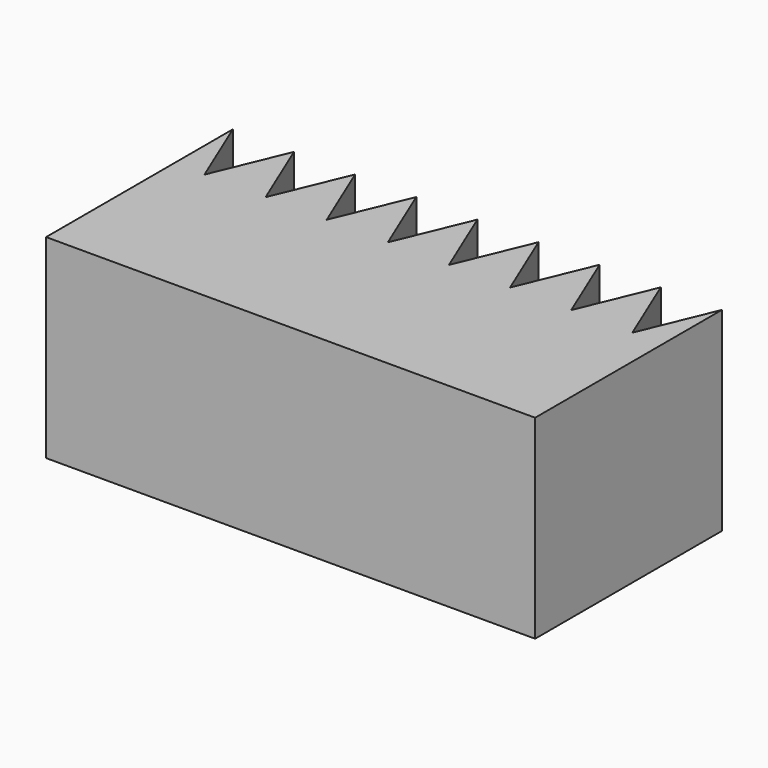
from build123d import *

# Parameters (mm, degrees)
F1_DEPTH = 25


with BuildPart() as f1:
    # F0 (on Top) → F1 (new body)
    with BuildSketch(Plane.XY):
        Polygon((3.92695, -9.480496), (0, 0), (0, -30), (62.8312, -30), (62.8312, 0), (58.90425, -9.480496), (54.9773, 0), (51.05035, -9.480496), (47.1234, 0), (43.19645, -9.480496), (39.2695, 0), (35.34255, -9.480496), (31.4156, 0), (27.48865, -9.480496), (23.5617, 0), (19.63475, -9.480496), (15.7078, 0), (11.78085, -9.480496), (7.8539, 0), align=None)
    extrude(amount=F1_DEPTH)


solid = f1.part
